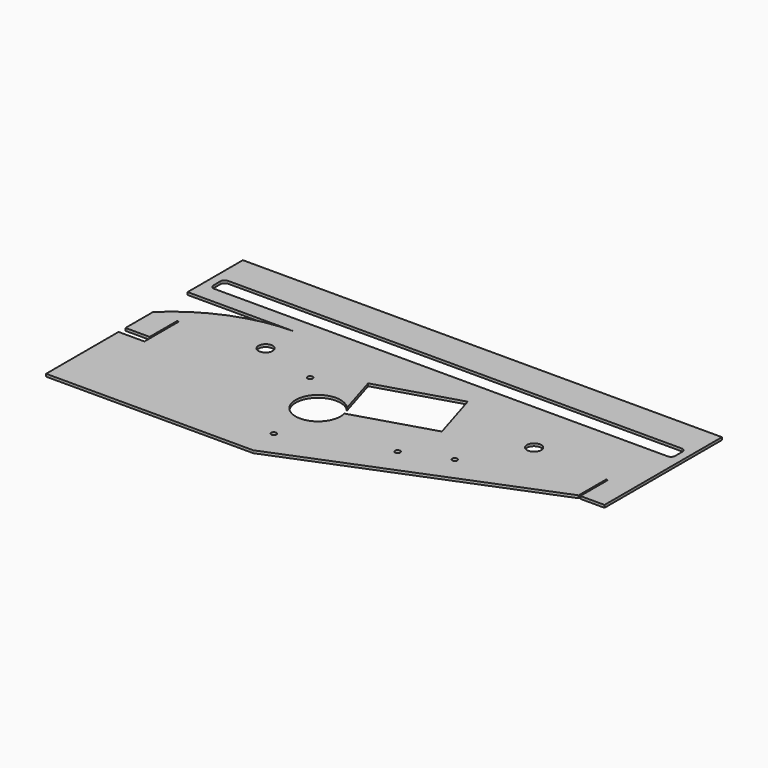
from build123d import *

# Parameters (mm, degrees)
F0_R     = 3
F0_R_2   = 8.25
F1_DEPTH = 3
F2_DEPTH = 3


with BuildPart() as f1:
    # F0 (on Top) → F1 (new body)
    with BuildSketch(Plane.XY):
        with BuildLine():
            Line((-332, -112.740123), (-92, -112.740123))
            Line((-92, -112.740123), (193, 2.2))
            Line((193, 2.2), (193, 42.2))
            Line((193, 42.2), (195, 42.2))
            Line((195, 42.2), (195, 2.2))
            Line((195, 2.2), (223, 2.2))
            Line((223, 2.2), (223, 42.2))
            Line((223, 42.2), (223, 92.2))
            Line((223, 92.2), (-208, 92.2))
            ThreePointArc((-208, 92.2), (-274.85058, 79.229438), (-332, 42.2))
            Line((-332, 42.2), (-332, 2.2))
            Line((-332, 2.2), (-304, 2.2))
            Line((-304, 2.2), (-304, 42.2))
            Line((-304, 42.2), (-302, 42.2))
            Line((-302, 42.2), (-302, -7.8))
            Line((-302, -7.8), (-332, -7.8))
            Line((-332, -7.8), (-332, -112.740123))
        make_face()
        with Locations((-97.75342, -75.697723)):
            Circle(F0_R, mode=Mode.SUBTRACT)
        with Locations((11.68458, -33.185084)):
            Circle(F0_R, mode=Mode.SUBTRACT)
        with Locations((61.68458, -13.020151)):
            Circle(F0_R, mode=Mode.SUBTRACT)
        with BuildLine():
            ThreePointArc((-72.603797, -5.10254), (-71.966891, -8.372833), (-71.75342, -11.697723))
            ThreePointArc((-71.75342, -11.697723), (-122.22259, -20.487474), (-77.696476, 4.846733))
            Line((-77.696476, 4.846733), (-92.811667, 54.601441))
            Line((-92.811667, 54.601441), (0, 82.797086))
            Line((0, 82.797086), (18.312635, 22.517343))
            Line((18.312635, 22.517343), (-72.603797, -5.10254))
        make_face(mode=Mode.SUBTRACT)
        with Locations((-208, 50.2)):
            Circle(F0_R_2, mode=Mode.SUBTRACT)
        with Locations((-140.75342, 30.502277)):
            Circle(F0_R, mode=Mode.SUBTRACT)
        with Locations((103, 50.2)):
            Circle(F0_R_2, mode=Mode.SUBTRACT)
    extrude(amount=F1_DEPTH)

    # F0 (on Top) → F2 (join)
    with BuildSketch(Plane.XY):
        with BuildLine():
            Line((-332, -112.740123), (-92, -112.740123))
            Line((-92, -112.740123), (193, 2.2))
            Line((193, 2.2), (193, 42.2))
            Line((193, 42.2), (195, 42.2))
            Line((195, 42.2), (195, 2.2))
            Line((195, 2.2), (223, 2.2))
            Line((223, 2.2), (223, 42.2))
            Line((223, 42.2), (223, 92.2))
            Line((223, 92.2), (-208, 92.2))
            ThreePointArc((-208, 92.2), (-274.85058, 79.229438), (-332, 42.2))
            Line((-332, 42.2), (-332, 2.2))
            Line((-332, 2.2), (-304, 2.2))
            Line((-304, 2.2), (-304, 42.2))
            Line((-304, 42.2), (-302, 42.2))
            Line((-302, 42.2), (-302, -7.8))
            Line((-302, -7.8), (-332, -7.8))
            Line((-332, -7.8), (-332, -112.740123))
        make_face()
        with Locations((-97.75342, -75.697723)):
            Circle(F0_R, mode=Mode.SUBTRACT)
        with Locations((11.68458, -33.185084)):
            Circle(F0_R, mode=Mode.SUBTRACT)
        with Locations((61.68458, -13.020151)):
            Circle(F0_R, mode=Mode.SUBTRACT)
        with BuildLine():
            ThreePointArc((-72.603797, -5.10254), (-71.966891, -8.372833), (-71.75342, -11.697723))
            ThreePointArc((-71.75342, -11.697723), (-122.22259, -20.487474), (-77.696476, 4.846733))
            Line((-77.696476, 4.846733), (-92.811667, 54.601441))
            Line((-92.811667, 54.601441), (0, 82.797086))
            Line((0, 82.797086), (18.312635, 22.517343))
            Line((18.312635, 22.517343), (-72.603797, -5.10254))
        make_face(mode=Mode.SUBTRACT)
        with Locations((-208, 50.2)):
            Circle(F0_R_2, mode=Mode.SUBTRACT)
        with Locations((-140.75342, 30.502277)):
            Circle(F0_R, mode=Mode.SUBTRACT)
        with Locations((103, 50.2)):
            Circle(F0_R_2, mode=Mode.SUBTRACT)
        Polygon((-208, 92.2), (223, 92.2), (223, 172.2), (-332, 172.2), (-332, 92.2), align=None)
        with BuildLine():
            ThreePointArc((-322, 127.2), (-320.535534, 130.735534), (-317, 132.2))
            Line((-317, 132.2), (208, 132.2))
            ThreePointArc((208, 132.2), (211.535534, 130.735534), (213, 127.2))
            Line((213, 127.2), (213, 117.2))
            ThreePointArc((213, 117.2), (211.535534, 113.664466), (208, 112.2))
            Line((208, 112.2), (-317, 112.2))
            ThreePointArc((-317, 112.2), (-320.535534, 113.664466), (-322, 117.2))
            Line((-322, 117.2), (-322, 127.2))
        make_face(mode=Mode.SUBTRACT)
    extrude(amount=F2_DEPTH)


solid = f1.part
